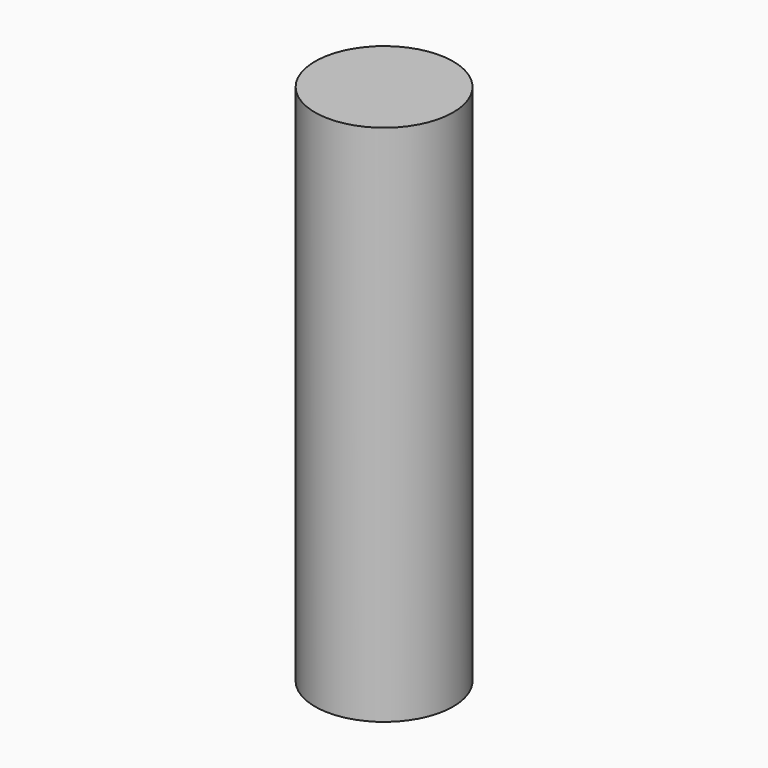
from build123d import *

# Parameters (mm, degrees)
CYLINDER_R     = 1.9812
CYLINDER_DEPTH = 15


with BuildPart() as part:
    # Cylinder → Cylinder (new body)
    with BuildSketch(Plane.XY.offset(-2.5)):
        Circle(CYLINDER_R)
    extrude(amount=CYLINDER_DEPTH)


solid = part.part
